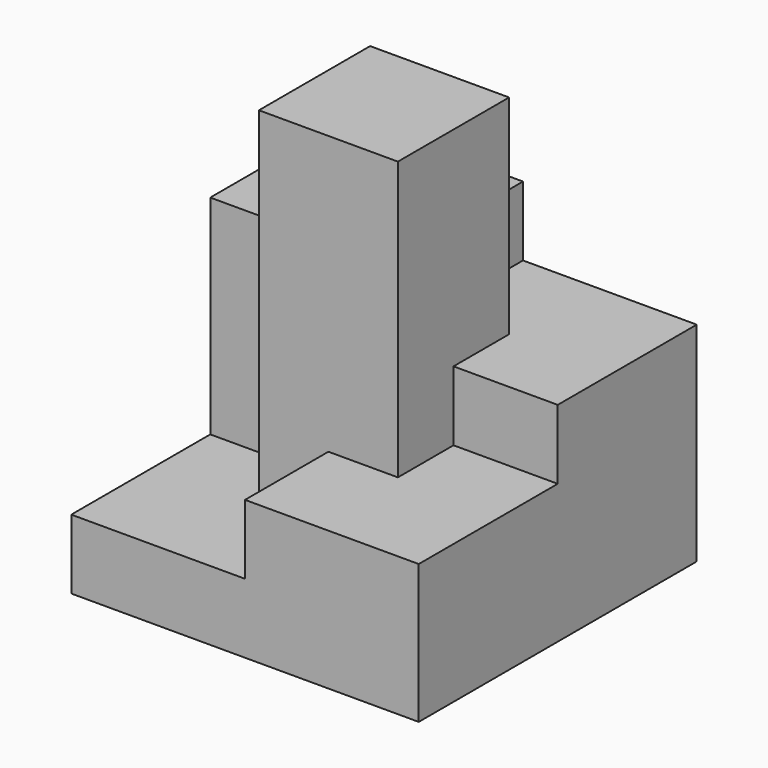
from build123d import *

# Parameters (mm, degrees)
F1_DEPTH  = 20.32
F2_DEPTH  = 15.24
F3_DEPTH  = 25.4
F4_DEPTH  = 10.16
F3_FACE_W = 10.16
F3_FACE_H = 10.16
F5_DEPTH  = 5.08


with BuildPart() as f1:
    # F0 (on Top) → F1 (new body)
    with BuildSketch(Plane.XY):
        Polygon((0.808182, 12.730596), (-9.351818, 12.730596), (-11.891818, 12.730596), (-11.891818, 10.190596), (-11.891818, 0.030596), (-4.271818, 0.030596), (-4.271818, 5.110596), (0.808182, 5.110596), align=None)
    extrude(amount=F1_DEPTH)

    # F0 (on Top) → F2 (join)
    with BuildSketch(Plane.XY):
        Polygon((10.968182, 12.730596), (0.808182, 12.730596), (0.808182, 5.110596), (5.888182, 5.110596), (5.888182, 0.030596), (13.508182, 0.030596), (13.508182, 10.190596), (13.508182, 12.730596), align=None)
    extrude(amount=F2_DEPTH)

    # F0 (on Top) → F3 (join)
    with BuildSketch(Plane.XY):
        Polygon((5.888182, 5.110596), (0.808182, 5.110596), (-4.271818, 5.110596), (-4.271818, 0.030596), (-4.271818, -5.049404), (0.808182, -5.049404), (5.888182, -5.049404), (5.888182, 0.030596), align=None)
    extrude(amount=F3_DEPTH)

    # F0 (on Top) → F4 (join)
    with BuildSketch(Plane.XY):
        Polygon((13.508182, 0.030596), (5.888182, 0.030596), (5.888182, -5.049404), (0.808182, -5.049404), (0.808182, -12.669404), (10.968182, -12.669404), (13.508182, -12.669404), (13.508182, -10.129404), align=None)
    extrude(amount=F4_DEPTH)

    # F0 (on Top) + F3_face (on face) → F5 (join)
    with BuildSketch(Plane.XY):
        Polygon((-4.271818, 0.030596), (-11.891818, 0.030596), (-11.891818, -10.129404), (-11.891818, -12.669404), (-9.351818, -12.669404), (0.808182, -12.669404), (0.808182, -5.049404), (-4.271818, -5.049404), align=None)
    with BuildSketch(Plane(origin=(0.808182, 0.030596, 25.4), x_dir=(1, 0, 0), z_dir=(0, 0, 1))):
        Rectangle(F3_FACE_W, F3_FACE_H)
    extrude(amount=F5_DEPTH)


solid = f1.part
